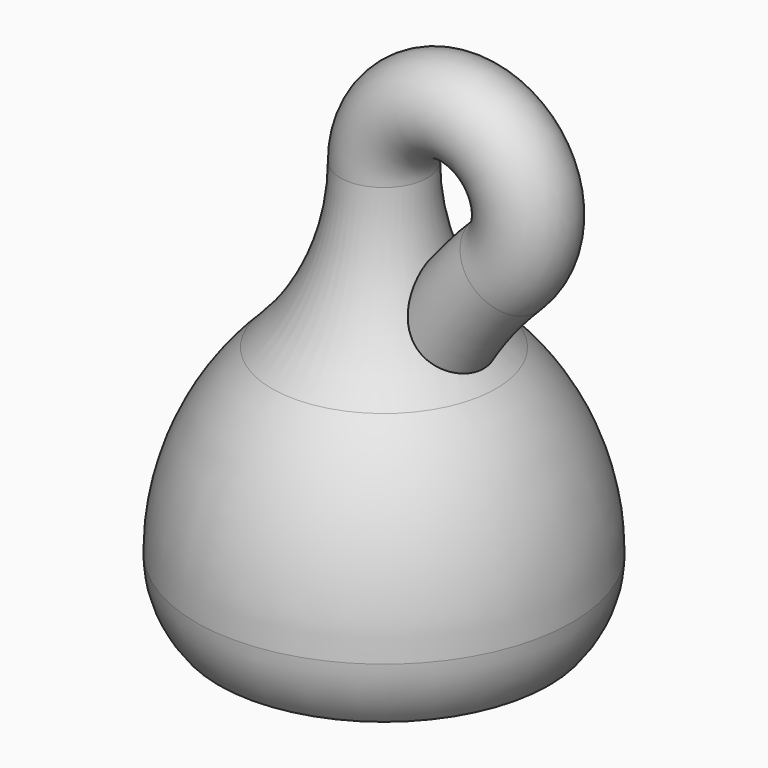
from build123d import *

# Parameters (mm, degrees)
F3_R        = 6.35
F1_FACE_R   = 8.89
F1_FACE_R_2 = 6.35


with BuildPart() as f1:
    # F0 (on Front) → F1 (revolve)
    with BuildSketch(Plane.XZ):
        with BuildLine():
            ThreePointArc((-22.7388604389, 49.4331598199), (-34.1050711693, 32.6078479435), (-38.1, 12.7))
            ThreePointArc((-38.1, 12.7), (-36.9084653399, 5.9424711448), (-33.4775780248, 0))
            Line((-33.4775780248, 0), (-22.225, 0))
            Line((-22.225, 0), (-10.9724219752, 0))
            ThreePointArc((-10.9724219752, 0), (-7.5415346601, 5.9424711448), (-6.35, 12.7))
            Line((-6.35, 12.7), (-8.89, 12.7))
            ThreePointArc((-8.89, 12.7), (-9.7402993052, 7.3560898958), (-12.207212807, 2.54))
            Line((-12.207212807, 2.54), (-22.225, 2.54))
            Line((-22.225, 2.54), (-32.242787193, 2.54))
            ThreePointArc((-32.242787193, 2.54), (-34.7097006948, 7.3560898958), (-35.56, 12.7))
            ThreePointArc((-35.56, 12.7), (-31.7617182814, 31.6279003722), (-20.955, 47.625))
            ThreePointArc((-20.955, 47.625), (-10.1482817186, 63.6220996278), (-6.35, 82.55))
            Line((-6.35, 82.55), (-8.89, 82.55))
            ThreePointArc((-8.89, 82.55), (-12.4916346066, 64.6020471991), (-22.7388604389, 49.4331598199))
        make_face()
    revolve(axis=Axis((0, 0, -2.9675168917), (0, 0, -1)))

    # F4: sweep along a path in F2
    with BuildLine(Plane.XZ) as f4_path:
        ThreePointArc((0, 82.55), (20.2396985351, 96.0242791057), (24.8621975239, 72.1530810355))
        ThreePointArc((24.8621975239, 72.1530810355), (6.465842543, 44.9211022093), (0, 12.7))
    # F3 (on face) → F4 (sweep, cut)
    with BuildSketch(Plane.XY.offset(82.55)):
        Circle(F3_R)
    sweep(path=f4_path.line, mode=Mode.SUBTRACT)

    # F5: sweep along a path in F2
    with BuildLine(Plane.XZ) as f5_path:
        ThreePointArc((0, 82.55), (20.2396985351, 96.0242791057), (24.8621975239, 72.1530810355))
        ThreePointArc((24.8621975239, 72.1530810355), (6.465842543, 44.9211022093), (0, 12.7))
    # F1_face (on face) → F5 (sweep)
    with BuildSketch(Plane.XY.offset(82.55)):
        Circle(F1_FACE_R)
        Circle(F1_FACE_R_2, mode=Mode.SUBTRACT)
    sweep(path=f5_path.line)


with BuildPart() as f1b:
    # F0 (on Front) → F1, piece 2 (revolve)
    with BuildSketch(Plane.XZ):
        with BuildLine():
            ThreePointArc((0, 8.4401041651), (-4.6301041651, 5.4502083301), (-3.81, 0))
            Line((-3.81, 0), (0, 0))
            Line((0, 0), (0, 8.4401041651))
        make_face()
    revolve(axis=Axis((0, 0, -2.9675168917), (0, 0, -1)))


solid = Compound([f1.part, f1b.part])
